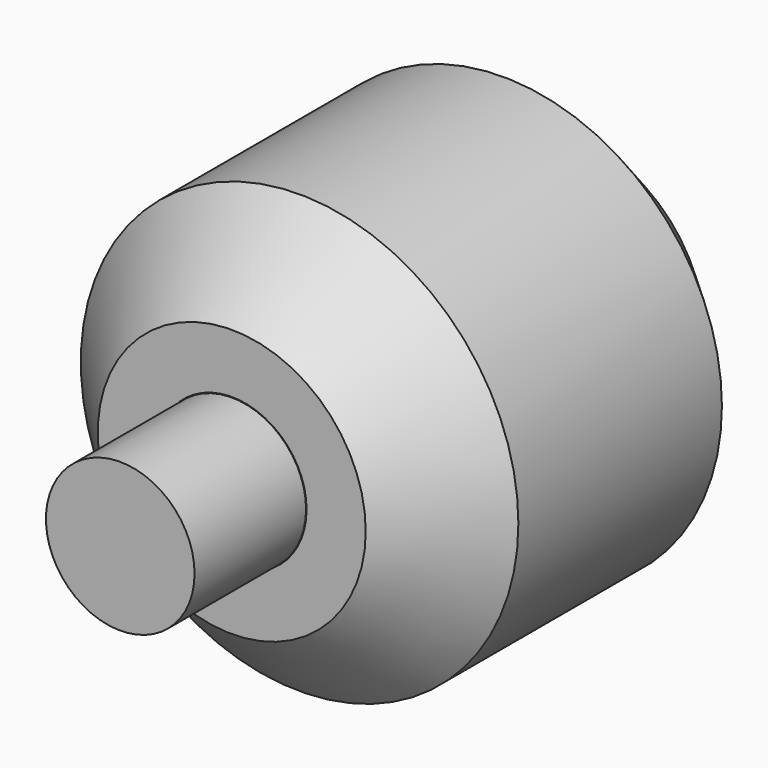
from build123d import *

# Parameters (mm, degrees)
F0_R     = 13.104446
F0_R_2   = 4.482344
F1_DEPTH = 25.4
F2_R     = 4.450852
F3_DEPTH = 8.34872
F4_SIZE  = 5.08
F5_SIZE  = 5.08


with BuildPart() as f1:
    # F0 (on Front) → F1 (new body)
    with BuildSketch(Plane.XZ):
        Circle(F0_R)
        Circle(F0_R_2, mode=Mode.SUBTRACT)
    extrude(amount=F1_DEPTH)

    # F4
    f4_edges = [f1.edges().sort_by_distance(p)[0] for p in [
        (-13.104446, -25.4, 0),
    ]]
    chamfer(f4_edges, length=F4_SIZE)

    # F5
    f5_edges = [f1.edges().sort_by_distance(p)[0] for p in [
        (-13.104446, 0, 0),
    ]]
    chamfer(f5_edges, length=F5_SIZE)


with BuildPart() as f3:
    # F2 (on face) → F3 (new body)
    with BuildSketch(Plane.XZ.offset(25.4)):
        Circle(F2_R)
    extrude(amount=F3_DEPTH)


solid = Compound([f1.part, f3.part])
